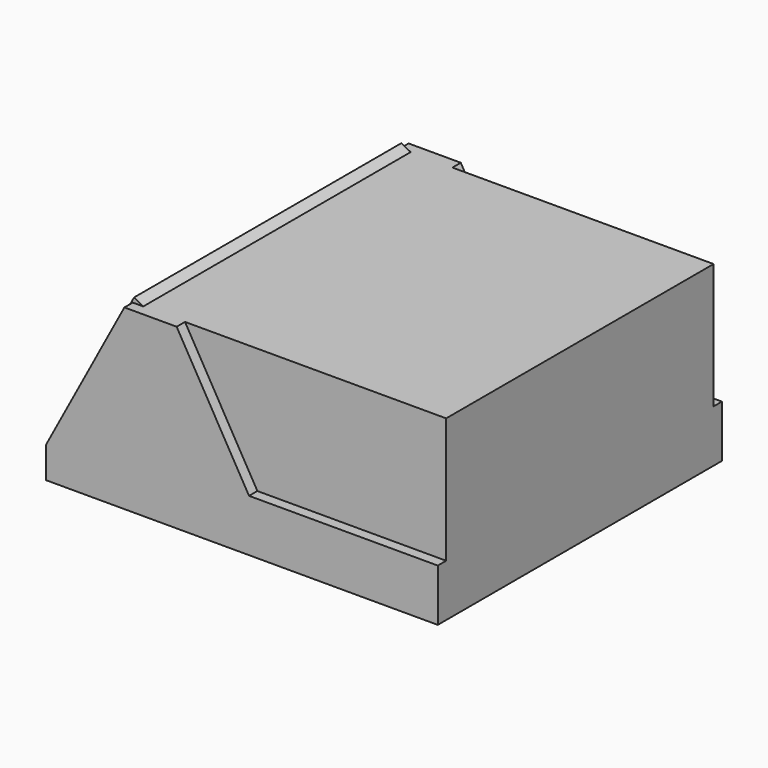
from build123d import *

# Parameters (mm, degrees)
SKETCH_W     = 177.5
SKETCH_H     = 160
PAD_DEPTH    = 5
SKETCH001_W  = 5
SKETCH001_H  = 15
PAD001_DEPTH = 160
SKETCH002_W  = 5
SKETCH002_H  = 75
PAD002_DEPTH = 160
SKETCH003_W  = 20
SKETCH003_H  = 5
PAD003_DEPTH = 160
SKETCH004_W  = 120
SKETCH004_H  = 5
PAD004_DEPTH = 160
SKETCH005_W  = 160
SKETCH005_H  = 25
PAD005_DEPTH = 5
PAD006_DEPTH = 5
PAD007_DEPTH = 160
SKETCH008_W  = 125
SKETCH008_H  = 60
PAD008_DEPTH = 5
SKETCH009_W  = 5
SKETCH009_H  = 60
PAD009_DEPTH = 150
SKETCH010_W  = 5
SKETCH010_H  = 60
PAD010_DEPTH = 150
SKETCH011_W  = 115
SKETCH011_H  = 150
PAD011_DEPTH = 5


with BuildPart() as part:
    # Sketch → Pad (new body)
    with BuildSketch(Plane.XY):
        with Locations((31.25, 0)):
            Rectangle(SKETCH_W, SKETCH_H)
    extrude(amount=PAD_DEPTH)

    # Sketch001 (on Face3 of Pad) → Pad001 (join)
    with BuildSketch(Plane.XZ.offset(80)):
        with Locations((-60, 7.5)):
            Rectangle(SKETCH001_W, SKETCH001_H)
    extrude(amount=-PAD001_DEPTH)

    # Sketch002 (on Face3 of Pad001) → Pad002 (join)
    with BuildSketch(Plane.XZ.offset(80)):
        with Locations((-2.5, 42.5)):
            Rectangle(SKETCH002_W, SKETCH002_H)
    extrude(amount=-PAD002_DEPTH)

    # Sketch003 (on Face10 of Pad002) → Pad003 (join)
    with BuildSketch(Plane.XZ.offset(80)):
        with Locations((-10, 82.5)):
            Rectangle(SKETCH003_W, SKETCH003_H)
    extrude(amount=-PAD003_DEPTH)

    # Sketch004 (on Face3 of Pad003) → Pad004 (join)
    with BuildSketch(Plane.XZ.offset(80)):
        with Locations((60, 22.5)):
            Rectangle(SKETCH004_W, SKETCH004_H)
    extrude(amount=-PAD004_DEPTH)

    # Sketch005 (on Face28 of Pad004) → Pad005 (join)
    with BuildSketch(Plane.YZ.offset(120)):
        with Locations((0, 12.5)):
            Rectangle(SKETCH005_W, SKETCH005_H)
    extrude(amount=PAD005_DEPTH)

    # Sketch006 (on Face11 of Pad005) → Pad006 (join)
    with BuildSketch(Plane(origin=(0, 80, 0), x_dir=(-1, 0, 0), z_dir=(0, 1, 0))):
        Polygon((62.5, 15), (62.5, 0), (-125, 0), (-125, 25), (-34.641016, 25), (0, 85), (25, 85), align=None)
    pad006 = extrude(amount=PAD006_DEPTH)

    # Sketch007 (on Face14 of Pad006) → Pad007 (join)
    with BuildSketch(Plane.XZ.offset(80)):
        Polygon((-57.5, 15), (-20, 85), (-24.4074, 87.361107), (-61.9074, 17.361107), align=None)
    extrude(amount=-PAD007_DEPTH)

    # Mirrored: Pad006 across XZ
    add(pad006.mirror(Plane.XZ))

    # Sketch008 (on Face36 of Mirrored) → Pad008 (join)
    with BuildSketch(Plane(origin=(0, -80, 0), x_dir=(-1, 0, 0), z_dir=(0, 1, 0))):
        with Locations((-62.5, 55)):
            Rectangle(SKETCH008_W, SKETCH008_H)
    pad008 = extrude(amount=PAD008_DEPTH)

    # Sketch009 (on Face37 of Pad008) → Pad009 (join)
    with BuildSketch(Plane(origin=(0, -75, 0), x_dir=(-1, 0, 0), z_dir=(0, 1, 0))):
        with Locations((-122.5, 55)):
            Rectangle(SKETCH009_W, SKETCH009_H)
    extrude(amount=PAD009_DEPTH)

    # Sketch010 (on Face39 of Pad009) → Pad010 (join)
    with BuildSketch(Plane(origin=(0, -75, 0), x_dir=(-1, 0, 0), z_dir=(0, 1, 0))):
        with Locations((-2.5, 55)):
            Rectangle(SKETCH010_W, SKETCH010_H)
    extrude(amount=PAD010_DEPTH)

    # Mirrored001: Pad008 across XZ
    add(pad008.mirror(Plane.XZ))

    # Sketch011 (on Face30 of Mirrored001) → Pad011 (join)
    with BuildSketch(Plane.XY.offset(85)):
        with Locations((62.5, 0)):
            Rectangle(SKETCH011_W, SKETCH011_H)
    extrude(amount=-PAD011_DEPTH)


solid = part.part
